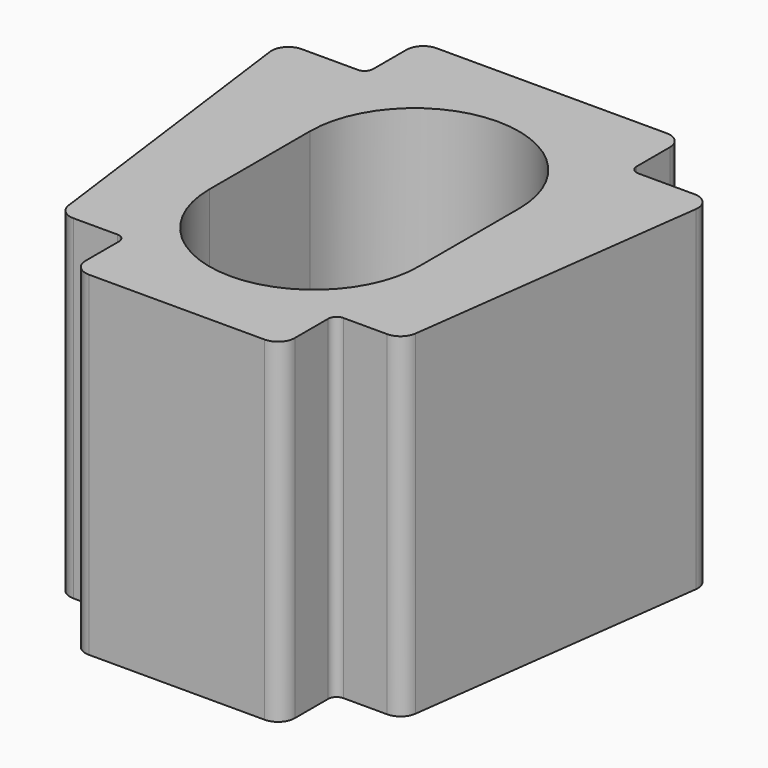
from build123d import *

# Parameters (mm, degrees)
PAD_DEPTH   = 40
FILLET_R    = 2
FILLET001_R = 1


with BuildPart() as part:
    # Sketch → Pad (new body)
    with BuildSketch(Plane.XY):
        Polygon((-15.75, 28), (15.75, 28), (15.75, 20), (25.75, 20), (20.5, -20), (12.5, -20), (12.5, -28), (-12.5, -28), (-12.5, -20), (-20.5, -20), (-25.75, 20), (-15.75, 20), align=None)
        with BuildLine():
            ThreePointArc((12.5, 7.5), (0, 20), (-12.5, 7.5))
            Line((-12.5, 7.5), (-12.5, -7.5))
            ThreePointArc((-12.5, -7.5), (0, -20), (12.5, -7.5))
            Line((12.5, 7.5), (12.5, -7.5))
        make_face(mode=Mode.SUBTRACT)
    extrude(amount=PAD_DEPTH)

    # Fillet
    fillet_edges = [part.edges().sort_by_distance(p)[0] for p in [
        (25.75, 20, 20),
        (15.75, 28, 20),
        (-15.75, 28, 20),
        (-25.75, 20, 20),
        (-20.5, -20, 20),
        (-12.5, -28, 20),
        (12.5, -28, 20),
        (20.5, -20, 20),
    ]]
    fillet(fillet_edges, radius=FILLET_R)

    # Fillet001
    fillet001_edges = [part.edges().sort_by_distance(p)[0] for p in [
        (15.75, 20, 20),
        (-15.75, 20, 20),
        (12.5, -20, 20),
        (-12.5, -20, 20),
    ]]
    fillet(fillet001_edges, radius=FILLET001_R)


solid = part.part
